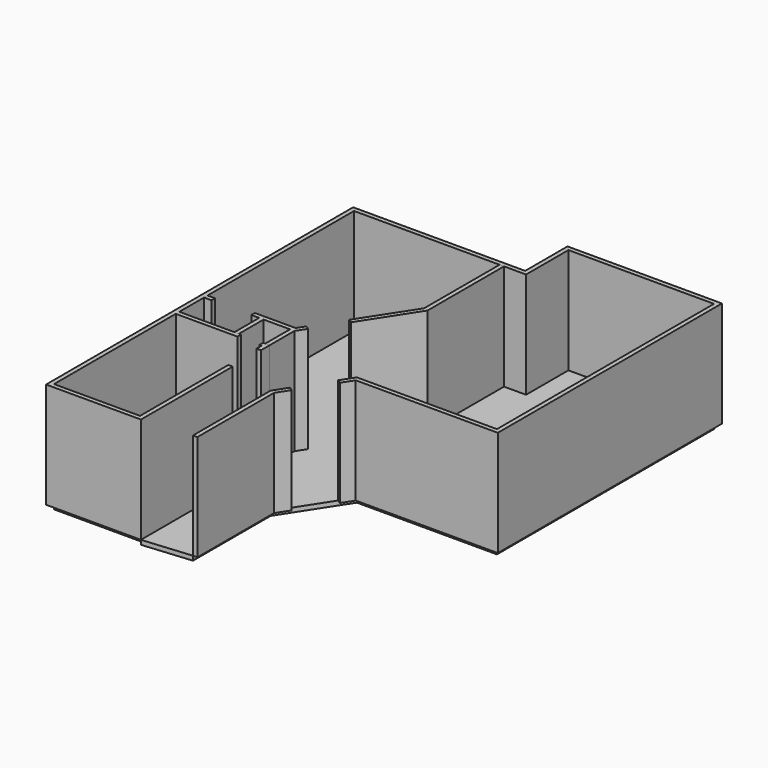
from build123d import *

# Parameters (mm, degrees)
F1_DEPTH = 2438.4
F3_DEPTH = 101.6
F4_W     = 174.651609
F4_H     = 101.6
F5_DEPTH = 2438.4
F6_W     = 508
F6_H     = 388.720166
F7_DEPTH = 2438.4


with BuildPart() as f1:
    # F0 (on Top) → F1 (new body)
    with BuildSketch(Plane.XY):
        Polygon((-1219.2, -1066.8), (-1219.2, -1524), (-1219.2, -3606.8), (-3200.4, -3606.8), (-3200.4, -101.6), (-1219.2, -101.6), (-1219.2, -254), (-1117.6, -254), (-1117.6, 0), (-3200.4, 0), (-3200.4, 5029.2), (762, 5029.2), (762, 6248.4), (4114.8, 6248.4), (4114.8, 0), (889, 0), (695.459022, -298.606081), (780.716965, -353.865859), (944.222614, -101.6), (4216.4, -101.6), (4216.4, 6350), (660.4, 6350), (660.4, 5130.8), (-3302, 5130.8), (-3302, -3708.4), (-1648.964067, -3708.4), (-1117.6, -3708.4), (-1117.6, -3606.8), (-1117.6, -1524), (-1117.6, -1066.8), align=None)
        Polygon((198.121018, -1065.927572), (0, -1371.6), (0, -3606.8), (101.6, -3606.8), (101.6, -1401.646319), (283.378962, -1121.18735), align=None)
    extrude(amount=F1_DEPTH)


with BuildPart() as f3:
    # F2 (on Top) → F3 (new body)
    with BuildSketch(Plane.XY):
        Polygon((762, 5029.2), (-3200.4, 5029.2), (-3200.4, 0), (-1117.6, 0), (-1117.6, -254), (-1219.2, -254), (-1219.2, -101.6), (-3200.4, -101.6), (-3200.4, -3606.8), (-1219.2, -3606.8), (-1219.2, -1066.8), (-1117.6, -1066.8), (-1117.6, -3708.4), (0, -3606.8), (0, -1371.6), (198.121018, -1065.927572), (889, 0), (4114.8, 0), (4114.8, 6248.4), (762, 6248.4), align=None)
    extrude(amount=-F3_DEPTH)


with BuildPart() as f5:
    # F4 (on Top) → F5 (new body)
    with BuildSketch(Plane.XY):
        Polygon((254, 5029.2), (152.4, 5029.2), (152.4, 2857.429177), (-620.224833, 1665.379434), (-534.96689, 1610.119656), (254, 2827.382857), align=None)
        Polygon((-1062.303058, 983.315887), (-1172.822614, 812.8), (-2111.348391, 812.8), (-2111.348391, 711.2), (-1930.4, 711.2), (-1930.4, 0), (-1828.8, 0), (-1828.8, 711.2), (-1219.2, 711.2), (-1219.2, 0), (-1117.6, 0), (-1117.6, 711.2), (-977.045115, 928.056109), align=None)
        with Locations((-3113.074195, 762)):
            Rectangle(F4_W, F4_H)
    extrude(amount=F5_DEPTH)


with BuildPart() as f7:
    # F6 (on Top) → F7 (new body, through all)
    with BuildSketch(Plane.XY):
        with Locations((-1524, -32.291073)):
            Rectangle(F6_W, F6_H)
    extrude(amount=F7_DEPTH)


with BuildPart() as f1_1:
    add(f1.part)

    # F8: cut F7
    add(f7.part, mode=Mode.SUBTRACT)


solid = Compound([f3.part, f5.part, f1_1.part])
